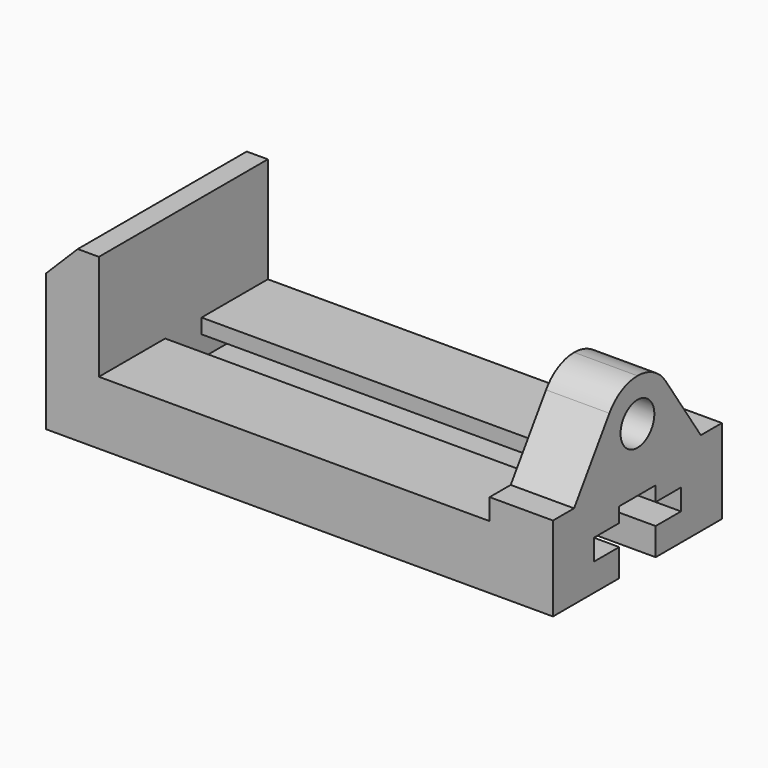
from build123d import *

# Parameters (mm, degrees)
F0_W     = 304.8
F0_H     = 101.6
F1_DEPTH = 63.5
F2_W     = 234.95
F2_H     = 63.5
F3_DEPTH = 127.001
F4_SIZE2 = 19.05
F4_SIZE  = 19.05
F5_R     = 12.7
F6_DEPTH = 38.1
F8_DEPTH = 273.05


with BuildPart() as f1:
    # F0 (on Front) → F1 (new body, symmetric)
    with BuildSketch(Plane.XZ):
        with Locations((152.4, 50.8)):
            Rectangle(F0_W, F0_H)
    extrude(amount=F1_DEPTH, both=True)

    # F2 (on face) → F3 (cut, through all)
    with BuildSketch(Plane.XZ.offset(63.5)):
        with Locations((149.225, 69.85)):
            Rectangle(F2_W, F2_H)
    extrude(amount=-F3_DEPTH, mode=Mode.SUBTRACT)

    # F4
    f4_edges = [f1.edges().sort_by_distance(p)[0] for p in [
        (0, 0, 101.6),
    ]]
    chamfer(f4_edges, length=F4_SIZE, length2=F4_SIZE2)

    # F5 (on face) → F6 (cut)
    with BuildSketch(Plane.YZ.offset(304.8)):
        with BuildLine():
            Line((-63.5, 101.6), (-63.5, 50.8))
            Line((-63.5, 50.8), (-47.625, 50.8))
            Line((-47.625, 50.8), (-21.093426, 90.350173))
            ThreePointArc((-21.093426, 90.350173), (-11.952941, 98.611765), (0, 101.6))
            Line((0, 101.6), (-63.5, 101.6))
        make_face()
        with BuildLine():
            Line((63.5, 101.6), (0, 101.6))
            ThreePointArc((0, 101.6), (11.952941, 98.611765), (21.093426, 90.350173))
            Line((21.093426, 90.350173), (47.625, 50.8))
            Line((47.625, 50.8), (63.5, 50.8))
            Line((63.5, 50.8), (63.5, 101.6))
        make_face()
        with Locations((0, 76.2)):
            Circle(F5_R)
    extrude(amount=-F6_DEPTH, mode=Mode.SUBTRACT)

    # F7 (on face) → F8 (cut)
    with BuildSketch(Plane.YZ.offset(304.8)):
        Polygon((-13.675422, 0), (0, 0), (13.675422, 0), (13.675422, 16.51), (32.725422, 16.51), (32.725422, 29.21), (13.675422, 29.21), (13.675422, 38.1), (0, 38.1), (-13.675422, 38.1), (-13.675422, 29.21), (-32.725422, 29.21), (-32.725422, 16.51), (-13.675422, 16.51), align=None)
    extrude(amount=-F8_DEPTH, mode=Mode.SUBTRACT)


solid = f1.part
